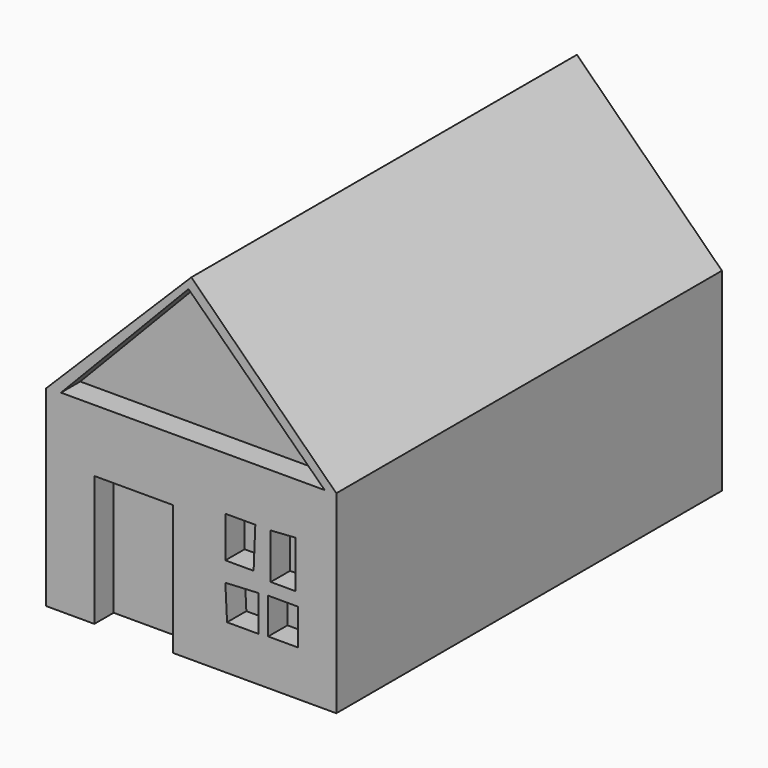
from build123d import *

# Parameters (mm, degrees)
PAD_DEPTH     = 100
SKETCH002_W   = 16.341032
SKETCH002_H   = 27.015066
SKETCH002_W_2 = 6.216697
SKETCH002_H_2 = 7.460034
POCKET_DEPTH  = 5


with BuildPart() as part:
    # Sketch → Pad (new body)
    with BuildSketch(Plane.XZ):
        Polygon((-30.131472, 0), (-30.131472, 39.766136), (0, 69.846497), (30.080984, 40.183968), (30.080984, 0), align=None)
    extrude(amount=PAD_DEPTH)

    # Sketch002 (on Face7 of Pad) → Pocket (cut)
    with BuildSketch(Plane.XZ.offset(100)):
        with Locations((-11.944406, 13.507533)):
            Rectangle(SKETCH002_W, SKETCH002_H)
        Polygon((-27.042097, 39.981319), (27.664824, 39.981319), (-0.576733, 67.512398), align=None)
        Polygon((7.060923, 28.968885), (7.060923, 20.443129), (12.922381, 20.443129), (13.277617, 28.968885), align=None)
        Polygon((16.474777, 28.968885), (16.474777, 19.555031), (21.625753, 19.555031), (21.625753, 29.324125), align=None)
        Polygon((7.060923, 16.357872), (7.416164, 9.253077), (13.9881, 9.253077), (13.9881, 16.713112), align=None)
        with Locations((19.050264, 13.160713)):
            Rectangle(SKETCH002_W_2, SKETCH002_H_2)
    extrude(amount=-POCKET_DEPTH, mode=Mode.SUBTRACT)


solid = part.part
